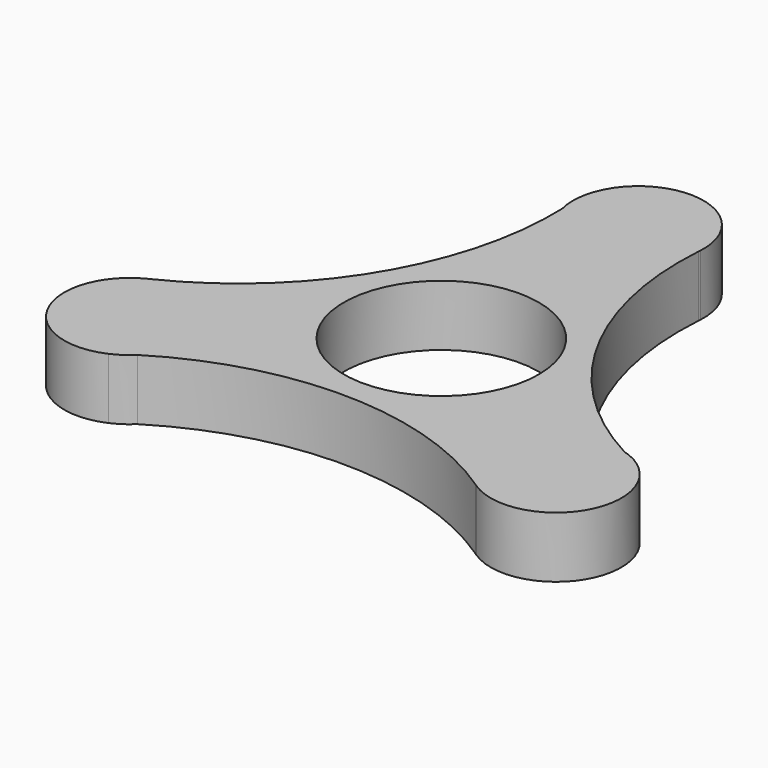
from build123d import *

# Parameters (mm, degrees)
F0_R     = 11.2
F1_DEPTH = 7


with BuildPart() as f1:
    # F0 (on Top) → F1 (new body)
    with BuildSketch(Plane.XY):
        with BuildLine():
            ThreePointArc((7.488202, 27.858269), (7.477991, 27.724006), (7.468279, 27.589707))
            ThreePointArc((7.468279, 27.589707), (7.479446, 27.723898), (7.488202, 27.858269))
        make_face()
        with BuildLine():
            ThreePointArc((26.566043, -6.932404), (11.907241, 7.501824), (7.468279, 27.589707))
            ThreePointArc((7.468279, 27.589707), (7.477991, 27.724006), (7.488202, 27.858269))
            ThreePointArc((7.488202, 27.858269), (0.600252, 35.754716), (-7.459366, 29.058425))
            ThreePointArc((-7.459366, 29.058425), (-7.346255, 27.767357), (-7.279384, 26.47307))
            ThreePointArc((-7.279384, 26.47307), (-12.450391, 6.561061), (-27.627526, -7.327134))
            ThreePointArc((-27.627526, -7.327134), (-27.748689, -7.385873), (-27.87007, -7.444161))
            ThreePointArc((-27.87007, -7.444161), (-31.264619, -17.357525), (-21.435651, -20.989213))
            ThreePointArc((-21.435651, -20.989213), (-20.374109, -20.245722), (-19.286659, -19.540666))
            ThreePointArc((-19.286659, -19.540666), (0.54315, -14.062885), (20.159248, -20.262572))
            ThreePointArc((20.159248, -20.262572), (20.270698, -20.338133), (20.381867, -20.414108))
            ThreePointArc((20.381867, -20.414108), (30.664367, -18.397191), (28.895018, -8.069212))
            ThreePointArc((28.895018, -8.069212), (27.720364, -7.521635), (26.566043, -6.932404))
        make_face()
        Circle(F0_R, mode=Mode.SUBTRACT)
        with BuildLine():
            ThreePointArc((28.895018, -8.069212), (27.780005, -7.399449), (26.566043, -6.932404))
            ThreePointArc((26.566043, -6.932404), (27.720364, -7.521635), (28.895018, -8.069212))
        make_face()
        with BuildLine():
            ThreePointArc((-7.279384, 26.47307), (-7.346255, 27.767357), (-7.459366, 29.058425))
            ThreePointArc((-7.459366, 29.058425), (-7.481892, 27.757915), (-7.279384, 26.47307))
        make_face()
        with BuildLine():
            ThreePointArc((20.159248, -20.262572), (20.269877, -20.339339), (20.381867, -20.414108))
            ThreePointArc((20.381867, -20.414108), (20.270698, -20.338133), (20.159248, -20.262572))
        make_face()
        with BuildLine():
            ThreePointArc((-27.87007, -7.444161), (-27.748689, -7.385873), (-27.627526, -7.327134))
            ThreePointArc((-27.627526, -7.327134), (-27.749323, -7.384559), (-27.87007, -7.444161))
        make_face()
        with BuildLine():
            ThreePointArc((-21.435651, -20.989213), (-20.298113, -20.358466), (-19.286659, -19.540666))
            ThreePointArc((-19.286659, -19.540666), (-20.374109, -20.245722), (-21.435651, -20.989213))
        make_face()
    extrude(amount=F1_DEPTH)


solid = f1.part
